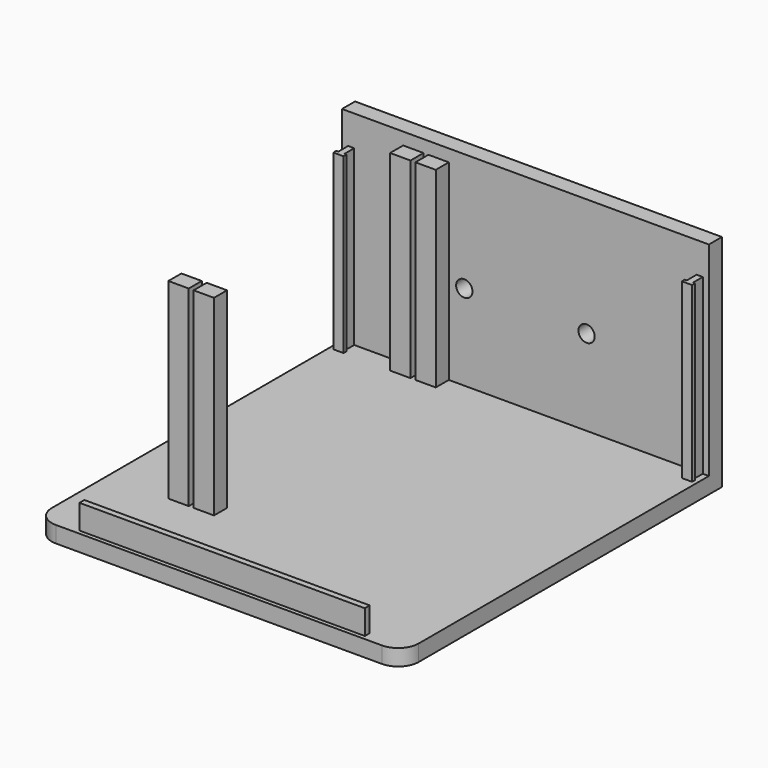
from build123d import *

# Parameters (mm, degrees)
PAD_DEPTH         = 4
SKETCH002_W       = 90
SKETCH002_H       = 4
PAD001_DEPTH      = 54
SKETCH001_W       = 5
SKETCH001_H       = 4
PAD002_DEPTH      = 51
SKETCH005_R       = 2
POCKET_DEPTH      = 84.001
POCKET_DEPTH_BACK = -14.001
SKETCH004_W       = 70
SKETCH004_H       = 1.5
PAD003_DEPTH      = 10
SKETCH003_W       = 1.5
SKETCH003_H       = 3
SKETCH003_W_2     = 2.5
SKETCH003_H_2     = 0.9
PAD004_DEPTH      = 46.5


with BuildPart() as part:
    # Sketch → Pad (new body)
    with BuildSketch(Plane.XY):
        with BuildLine():
            Line((0, 94), (0, 5))
            ThreePointArc((0, 5), (1.464466, 1.464466), (5, 0))
            Line((5, 0), (85, 0))
            ThreePointArc((85, 0), (88.535534, 1.464466), (90, 5))
            Line((90, 5), (90, 94))
            Line((90, 94), (0, 94))
        make_face()
    extrude(amount=PAD_DEPTH)

    # Sketch002 → Pad001 (join)
    with BuildSketch(Plane.XY):
        with Locations((45, 96)):
            Rectangle(SKETCH002_W, SKETCH002_H)
    extrude(amount=PAD001_DEPTH)

    # Sketch001 → Pad002 (join)
    with BuildSketch(Plane.XY):
        with Locations((17.5, 92)):
            Rectangle(SKETCH001_W, SKETCH001_H)
        with Locations((17.5, 24)):
            Rectangle(SKETCH001_W, SKETCH001_H)
        with Locations((23.7, 92)):
            Rectangle(SKETCH001_W, SKETCH001_H)
        with Locations((23.7, 24)):
            Rectangle(SKETCH001_W, SKETCH001_H)
    extrude(amount=PAD002_DEPTH)

    # Sketch005 → Pocket (cut, two sides)
    with BuildSketch(Plane(origin=(0, 84, 0), x_dir=(-1, 0, 0), z_dir=(0, 1, 0))) as pocket_sk:
        with Locations((-30, 25)):
            Circle(SKETCH005_R)
        with Locations((-60, 25)):
            Circle(SKETCH005_R)
    extrude(amount=-POCKET_DEPTH, mode=Mode.SUBTRACT)
    extrude(pocket_sk.sketch, amount=-POCKET_DEPTH_BACK, mode=Mode.SUBTRACT)

    # Sketch004 → Pad003 (join)
    with BuildSketch(Plane.XY):
        with Locations((45, 1.75)):
            Rectangle(SKETCH004_W, SKETCH004_H)
    extrude(amount=PAD003_DEPTH)

    # Sketch003 → Pad004 (join)
    with BuildSketch(Plane.XY):
        with Locations((2.25, 92.5)):
            Rectangle(SKETCH003_W, SKETCH003_H)
        with Locations((2.25, 90.55)):
            Rectangle(SKETCH003_W_2, SKETCH003_H_2)
        with Locations((87.75, 92.5)):
            Rectangle(SKETCH003_W, SKETCH003_H)
        with Locations((87.75, 90.55)):
            Rectangle(SKETCH003_W_2, SKETCH003_H_2)
    extrude(amount=PAD004_DEPTH)


solid = part.part
